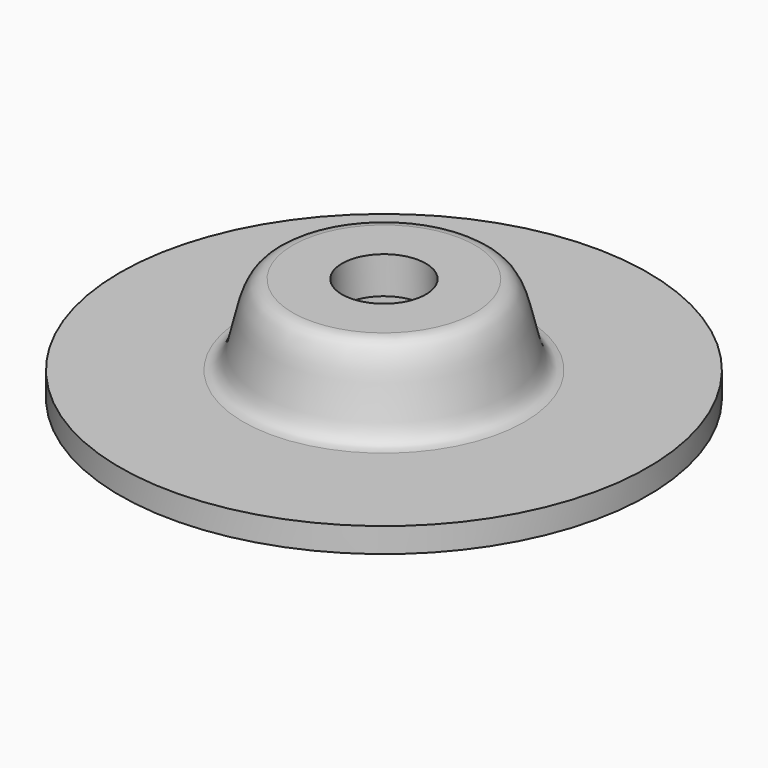
from build123d import *

# Parameters (mm, degrees)
F0_W   = 10
F0_H   = 2
F0_W_2 = 2.5
F0_H_2 = 1.5


with BuildPart() as f1:
    # F0 (on Front) → F1 (revolve)
    with BuildSketch(Plane.XZ):
        Polygon((-11.4, 0), (-3.4, 0), (-3.4, 2), (-7.4, 2), (-11.4, 2), align=None)
        with Locations((-16.4, 1)):
            Rectangle(F0_W, F0_H)
        Polygon((-7.4, 2), (-3.4, 2), (-3.4, 4), (-4.9, 4), (-7.4, 4), align=None)
        with BuildLine():
            add(Edge.make_bspline(
                [(-11.4, 2), (-8.998881, 2), (-10.133207, 8.528806), (-7.4, 8.5)],
                knots=[0, 0, 0, 0, 7.632169, 7.632169, 7.632169, 7.632169], degree=3))
            Line((-11.4, 2), (-7.4, 2))
            Line((-7.4, 2), (-7.4, 4))
            Line((-7.4, 4), (-7.4, 5.5))
            Line((-7.4, 5.5), (-7.4, 8.5))
        make_face()
        Polygon((-5.4, 8.5), (-7.4, 8.5), (-7.4, 5.5), (-4.9, 5.5), (-3.4, 5.5), (-3.4, 8.5), align=None)
        with Locations((-6.15, 4.75)):
            Rectangle(F0_W_2, F0_H_2)
    revolve(axis=Axis((0, 0, 3.40394), (0, 0, 1)))


solid = f1.part
